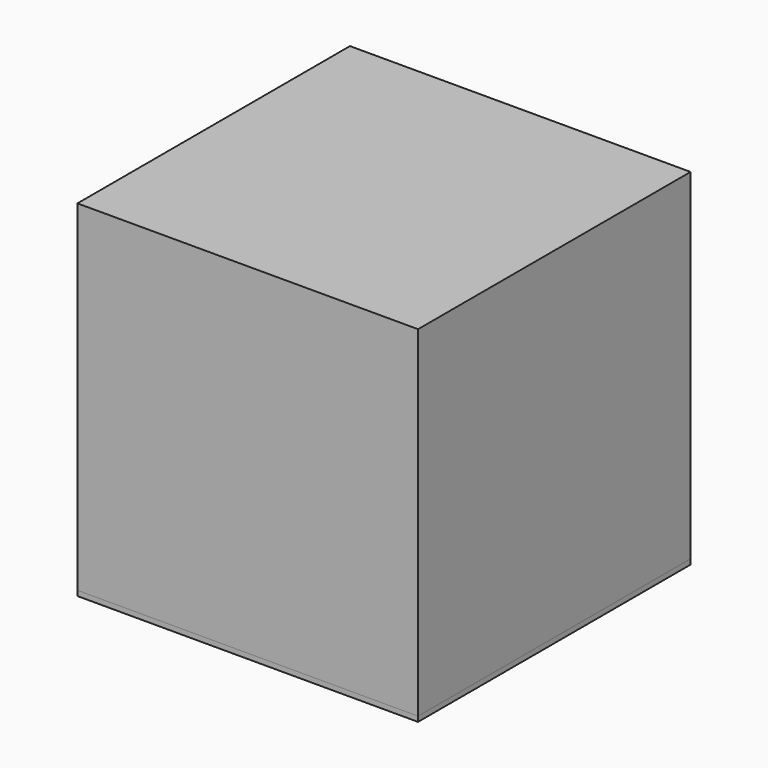
from build123d import *

# Parameters (mm, degrees)
F0_W      = 200
F0_H      = 200
F1_DEPTH  = 3
F1_FACE_W = 200
F1_FACE_H = 200
F2_DEPTH  = 200


with BuildPart() as f1:
    # F0 (on Top) → F1 (new body)
    with BuildSketch(Plane.XY):
        Rectangle(F0_W, F0_H)
    extrude(amount=-F1_DEPTH)


with BuildPart() as f2:
    # F1_face (on face) → F2 (new body)
    with BuildSketch(Plane.XY):
        Rectangle(F1_FACE_W, F1_FACE_H)
    extrude(amount=F2_DEPTH)


solid = Compound([f1.part, f2.part])
